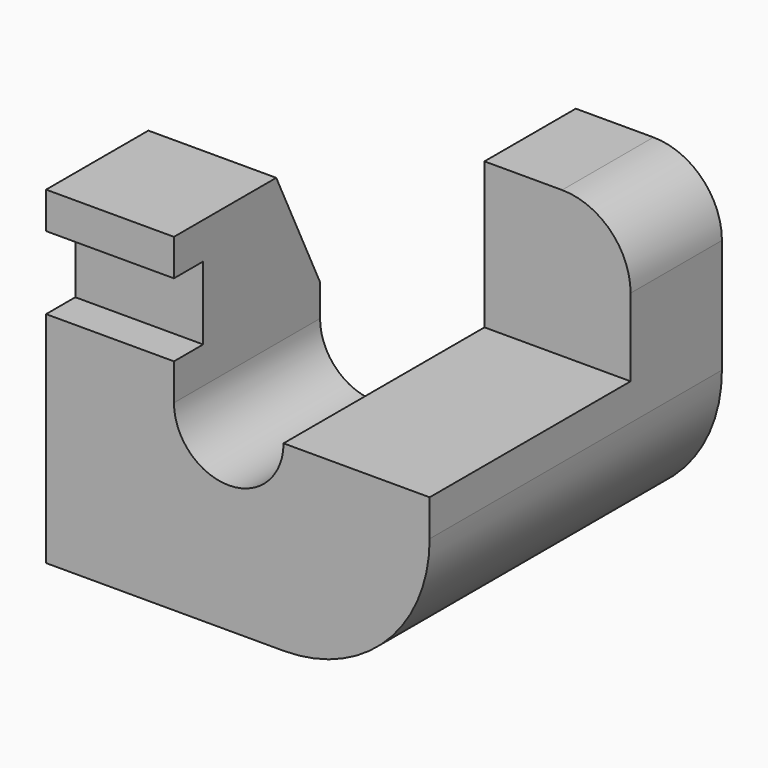
from build123d import *

# Parameters (mm, degrees)
SKETCH_R        = 12
PAD_DEPTH       = 40
SKETCH001_W     = 75.633354
SKETCH001_H     = 46.920013
POCKET_DEPTH    = 55
SKETCH002_W     = 41.400021
SKETCH002_H     = 16
POCKET001_DEPTH = 8
SKETCH003_W     = 67.968546
SKETCH003_H     = 93.61967
POCKET002_DEPTH = 40
POCKET003_DEPTH = 28.001


with BuildPart() as part:
    # Sketch → Pad (new body, symmetric)
    with BuildSketch(Plane.XZ):
        with BuildLine():
            Line((-40, 32), (29, 32))
            ThreePointArc((44, 17), (39.606602, 27.606602), (29, 32))
            Line((44, 17), (44, -8))
            ThreePointArc((12, -40), (34.627417, -30.627417), (44, -8))
            Line((12, -40), (-40, -40))
            Line((-40, -40), (-40, 32))
        make_face()
        Circle(SKETCH_R, mode=Mode.SUBTRACT)
    extrude(amount=PAD_DEPTH, both=True)

    # Sketch001 → Pocket (cut)
    with BuildSketch(Plane.XZ.offset(40)):
        with Locations((25.816677, 23.460006)):
            Rectangle(SKETCH001_W, SKETCH001_H)
    extrude(amount=-POCKET_DEPTH, mode=Mode.SUBTRACT)

    # Sketch002 → Pocket001 (cut)
    with BuildSketch(Plane.XZ.offset(40)):
        with Locations((-28.213342, 16)):
            Rectangle(SKETCH002_W, SKETCH002_H)
    extrude(amount=-POCKET001_DEPTH, mode=Mode.SUBTRACT)

    # Sketch003 → Pocket002 (cut)
    with BuildSketch(Plane(origin=(0, 40, 0), x_dir=(1, 0, 0), z_dir=(0, 1, 0))):
        with Locations((-21.984273, 2.649843)):
            Rectangle(SKETCH003_W, SKETCH003_H)
    extrude(amount=-POCKET002_DEPTH, mode=Mode.SUBTRACT)

    # Sketch004 → Pocket003 (cut, through all)
    with BuildSketch(Plane(origin=(-12, 0, 0), x_dir=(0, 0, 1), z_dir=(1, 0, 0))):
        Polygon((32, 12), (32, 0), (7, 0), align=None)
    extrude(amount=-POCKET003_DEPTH, mode=Mode.SUBTRACT)


solid = part.part
